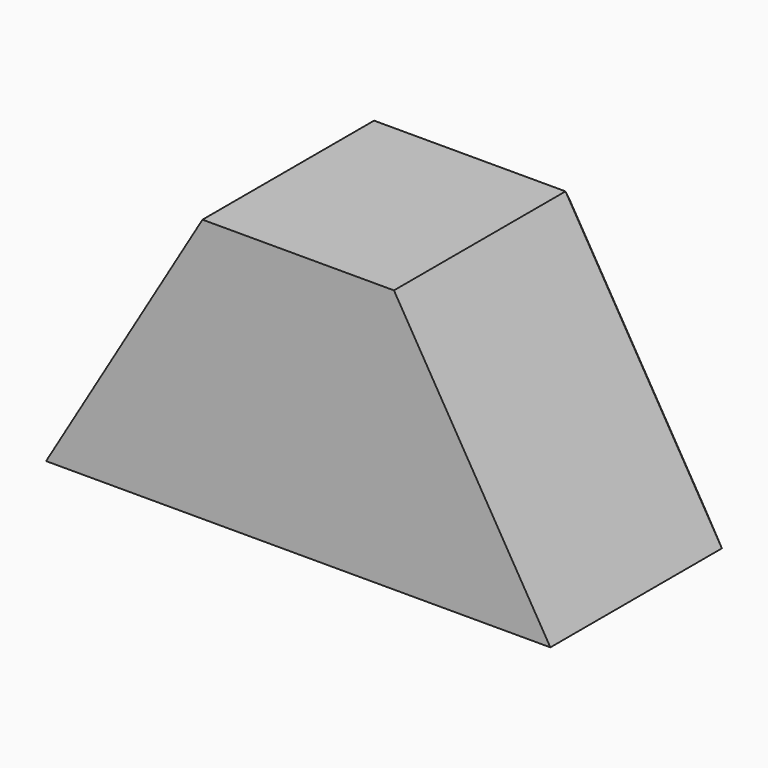
from build123d import *

# Parameters (mm, degrees)
F1_DEPTH = 300
F2_SIZE  = 20


with BuildPart() as f1:
    # F0 (on Front) → F1 (new body)
    with BuildSketch(Plane.XZ):
        Polygon((0, -343.945524), (0, 0), (-125, 0), (-329.209394, -343.945524), align=None)
        Polygon((125, 0), (0, 0), (0, -343.945524), (329.209394, -343.945524), align=None)
    extrude(amount=F1_DEPTH)

    # F2
    f2_edges = [f1.edges().sort_by_distance(p)[0] for p in [
        (0, 0, -343.945524),
        (227.104697, 0, -171.972762),
        (0, 0, 0),
        (-227.104697, 0, -171.972762),
    ]]
    chamfer(f2_edges, length=F2_SIZE)


solid = f1.part
